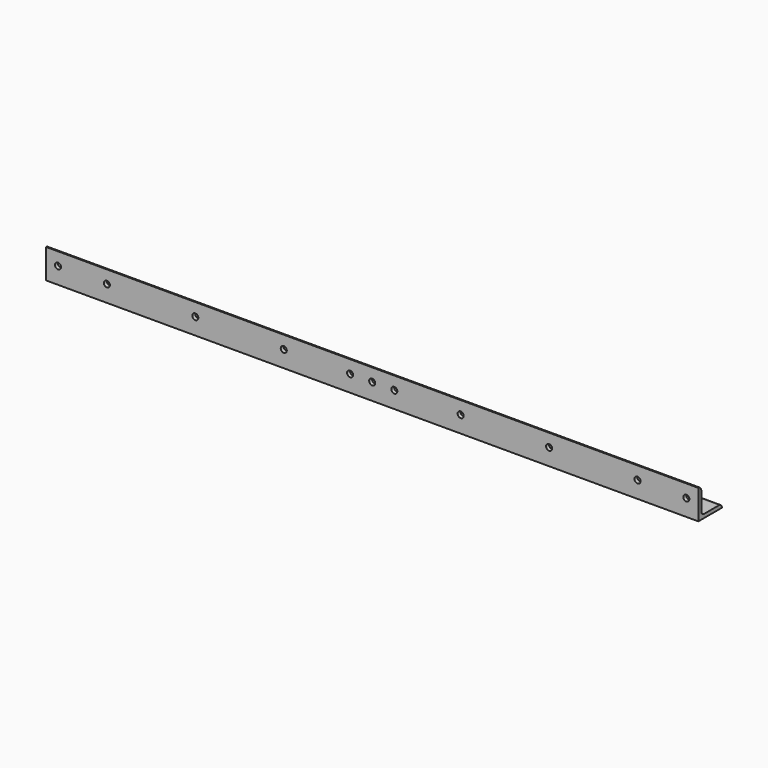
from build123d import *

# Parameters (mm, degrees)
F1_DEPTH = 561.975
F2_R     = 2.6162
F3_DEPTH = 25.4


with BuildPart() as f1:
    # F0 (on Right) → F1 (new body)
    with BuildSketch(Plane.YZ):
        with BuildLine():
            Line((0, -19.05), (0, -3.175))
            ThreePointArc((0, -3.175), (-0.929936, -0.929936), (-3.175, 0))
            Line((-3.175, 0), (-3.175, -25.4))
            Line((-3.175, -25.4), (22.225, -25.4))
            ThreePointArc((22.225, -25.4), (21.295064, -23.154936), (19.05, -22.225))
            Line((19.05, -22.225), (3.175, -22.225))
            ThreePointArc((3.175, -22.225), (0.929936, -21.295064), (0, -19.05))
        make_face()
    extrude(amount=-F1_DEPTH)

    # F2 (on face) → F3 (cut)
    with BuildSketch(Plane(origin=(0, 0, 0), x_dir=(-1, 0, 0), z_dir=(0, 1, 0))):
        with Locations((10.31875, -11.1125)):
            Circle(F2_R)
        with Locations((280.9875, -11.1125)):
            Circle(F2_R)
        with Locations((551.6626, -11.1125)):
            Circle(F2_R)
        with Locations((128.5875, -11.1125)):
            Circle(F2_R)
        with Locations((204.7875, -11.1125)):
            Circle(F2_R)
        with Locations((357.1875, -11.1125)):
            Circle(F2_R)
        with Locations((433.3875, -11.1125)):
            Circle(F2_R)
        with Locations((509.5875, -11.1125)):
            Circle(F2_R)
        with Locations((52.3875, -11.1125)):
            Circle(F2_R)
        with Locations((261.9375, -11.1125)):
            Circle(F2_R)
        with Locations((300.0375, -11.1125)):
            Circle(F2_R)
    extrude(amount=-F3_DEPTH, mode=Mode.SUBTRACT)


solid = f1.part
